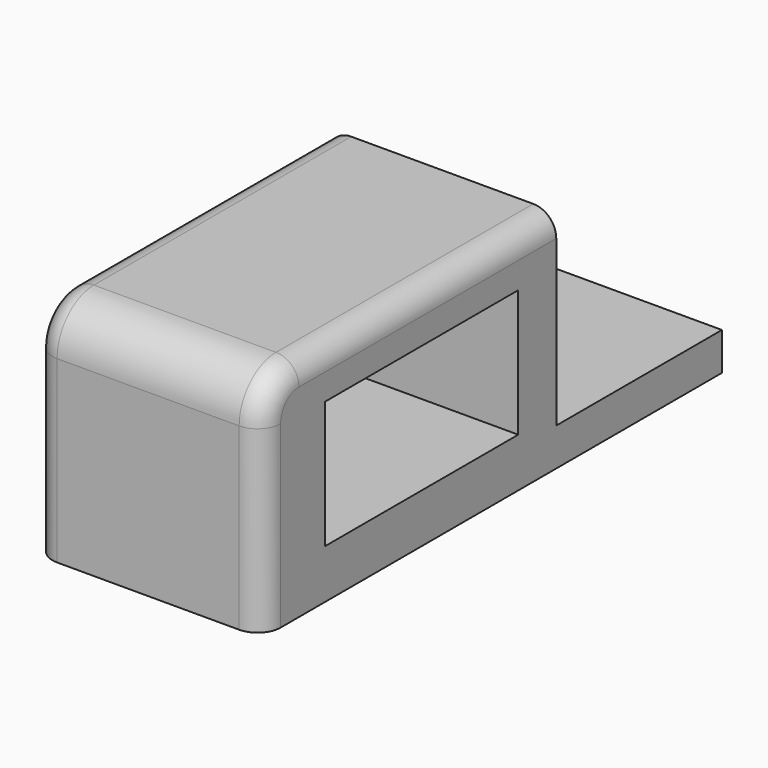
from build123d import *

# Parameters (mm, degrees)
F0_W     = 49.5728366077
F0_H     = 49.0062981844
F1_DEPTH = 79.9
F2_W     = 49.5728366077
F2_H     = 8.2149282098
F3_DEPTH = 45
F4_R     = 10
F5_R     = 5
F7_W     = 52.4731706828
F7_H     = 27.6486203074
F8_DEPTH = 44


with BuildPart() as f1:
    # F0 (on Front) → F1 (new body)
    with BuildSketch(Plane.XZ):
        Rectangle(F0_W, F0_H)
    extrude(amount=-F1_DEPTH)

    # F2 (on face) → F3 (join)
    with BuildSketch(Plane(origin=(0, 79.9, 0), x_dir=(-1, 0, 0), z_dir=(0, 1, 0))):
        with Locations((0, -20.3956849873)):
            Rectangle(F2_W, F2_H)
    extrude(amount=F3_DEPTH)

    # F4
    f4_edges = [f1.edges().sort_by_distance(p)[0] for p in [
        (0, 0, 24.503149),
    ]]
    fillet(f4_edges, radius=F4_R)

    # F5
    f5_edges = [f1.edges().sort_by_distance(p)[0] for p in [
        (24.786418, 2.928932, 21.574217),
        (-24.786418, 2.928932, 21.574217),
    ]]
    fillet(f5_edges, radius=F5_R)

    # F7 (on face) → F8 (cut)
    with BuildSketch(Plane.YZ.offset(24.7864183038)):
        with Locations((43.3237338439, -0.006724149)):
            Rectangle(F7_W, F7_H)
    extrude(amount=-F8_DEPTH, mode=Mode.SUBTRACT)


solid = f1.part
